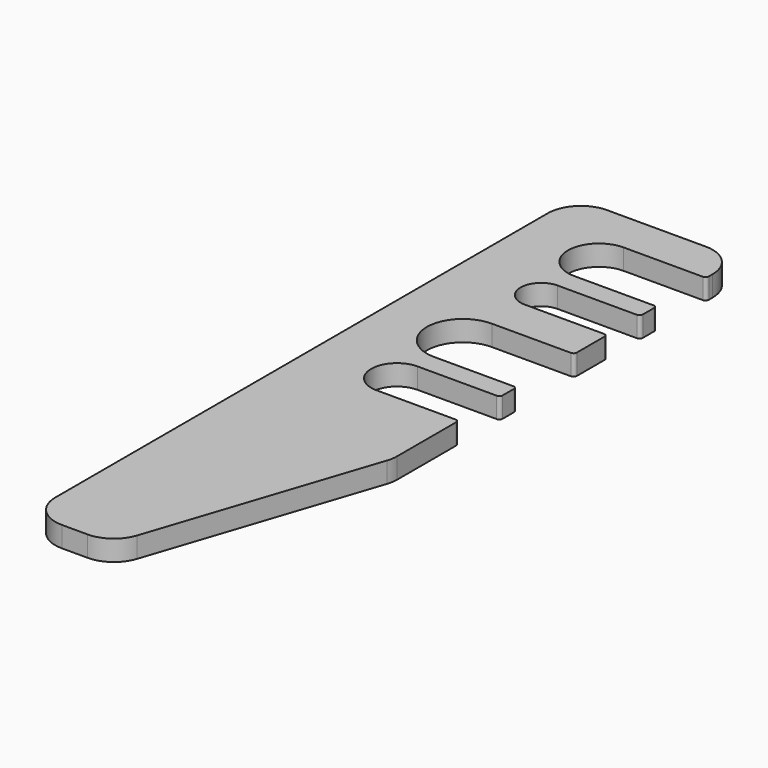
from build123d import *

# Parameters (mm, degrees)
F1_DEPTH = 3.175
F2_R     = 5.08
F3_R     = 0.508


with BuildPart() as f1:
    # F0 (on Top) → F1 (new body)
    with BuildSketch(Plane.XY):
        with BuildLine():
            Line((-30.841844, 43.311745), (-30.841844, -61.686775))
            Line((-30.841844, -61.686775), (-18.141844, -61.686775))
            Line((-18.141844, -61.686775), (-5.441844, -23.358175))
            Line((-5.441844, -23.358175), (-5.441844, -10.658175))
            Line((-5.441844, -10.658175), (-18.141844, -10.658175))
            ThreePointArc((-18.141844, -10.658175), (-22.109324, -6.690695), (-18.141844, -2.723215))
            Line((-18.141844, -2.723215), (-5.441844, -2.723215))
            Line((-5.441844, -2.723215), (-5.441844, 0.451785))
            Line((-5.441844, 0.451785), (-18.141844, 0.451785))
            ThreePointArc((-18.141844, 0.451785), (-23.696824, 6.006765), (-18.141844, 11.561745))
            Line((-18.141844, 11.561745), (-5.441844, 11.561745))
            Line((-5.441844, 11.561745), (-5.441844, 17.911745))
            Line((-5.441844, 17.911745), (-18.141844, 17.911745))
            ThreePointArc((-18.141844, 17.911745), (-21.316844, 21.086745), (-18.141844, 24.261745))
            Line((-18.141844, 24.261745), (-5.441844, 24.261745))
            Line((-5.441844, 24.261745), (-5.441844, 27.436745))
            Line((-5.441844, 27.436745), (-18.141844, 27.436745))
            ThreePointArc((-18.141844, 27.436745), (-22.904344, 32.199245), (-18.141844, 36.961745))
            Line((-18.141844, 36.961745), (-5.441844, 36.961745))
            Line((-5.441844, 36.961745), (-5.441844, 43.311745))
            Line((-5.441844, 43.311745), (-30.841844, 43.311745))
        make_face()
    extrude(amount=F1_DEPTH)

    # F2
    f2_edges = [f1.edges().sort_by_distance(p)[0] for p in [
        (-18.141844, -61.686775, 1.5875),
        (-5.441844, -23.358175, 1.5875),
        (-30.841844, -61.686775, 1.5875),
        (-5.441844, 43.311745, 1.5875),
        (-30.841844, 43.311745, 1.5875),
    ]]
    fillet(f2_edges, radius=F2_R)

    # F3
    f3_edges = [f1.edges().sort_by_distance(p)[0] for p in [
        (-5.441844, -10.658175, 1.5875),
        (-5.441844, -2.723215, 1.5875),
        (-5.441844, 0.451785, 1.5875),
        (-5.441844, 11.561745, 1.5875),
        (-5.441844, 17.911745, 1.5875),
        (-5.441844, 24.261745, 1.5875),
        (-5.441844, 27.436745, 1.5875),
        (-5.441844, 36.961745, 1.5875),
    ]]
    fillet(f3_edges, radius=F3_R)


solid = f1.part
